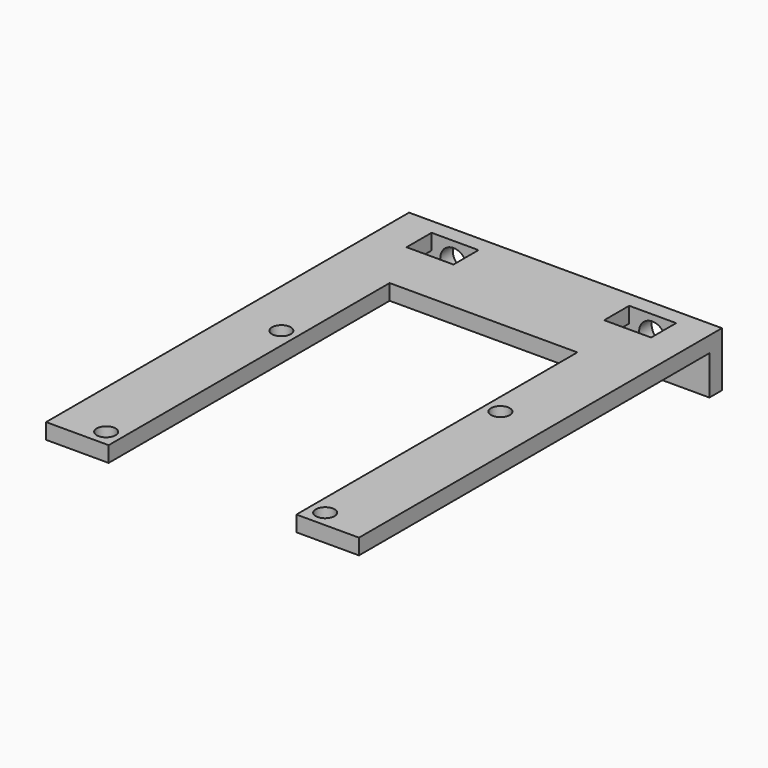
from build123d import *

# Parameters (mm, degrees)
SKETCH_W        = 40
SKETCH_H        = 58
PAD_DEPTH       = 2
SKETCH001_W     = 24
SKETCH001_H     = 50
POCKET_DEPTH    = 5
SKETCH002_W     = 40
SKETCH002_H     = 2
PAD001_DEPTH    = 5
SKETCH004_R     = 1.7
POCKET001_DEPTH = 7
SKETCH005_R     = 1.2
POCKET002_DEPTH = 5
SKETCH006_W     = 6
SKETCH006_H     = 4
POCKET003_DEPTH = 5
SKETCH007_R     = 1.2
POCKET004_DEPTH = 5


with BuildPart() as part:
    # Sketch → Pad (new body)
    with BuildSketch(Plane.XY):
        Rectangle(SKETCH_W, SKETCH_H)
    extrude(amount=PAD_DEPTH)

    # Sketch001 (on Face6 of Pad) → Pocket (cut)
    with BuildSketch(Plane.XY.offset(2)):
        with Locations((0, -9.102527)):
            Rectangle(SKETCH001_W, SKETCH001_H)
    extrude(amount=-POCKET_DEPTH, mode=Mode.SUBTRACT)

    # Sketch002 (on Face4 of Pocket) → Pad001 (join)
    with BuildSketch(Plane(origin=(0, 0, 0), x_dir=(1, 0, 0), z_dir=(0, 0, -1))):
        with Locations((0, -28)):
            Rectangle(SKETCH002_W, SKETCH002_H)
    extrude(amount=PAD001_DEPTH)

    # Sketch004 (on Face4 of Pad001) → Pocket001 (cut)
    with BuildSketch(Plane(origin=(0, 29, 0), x_dir=(-1, 0, 0), z_dir=(0, 1, 0))):
        with Locations((-12.71, -0.5)):
            Circle(SKETCH004_R)
        with Locations((12.71, -0.5)):
            Circle(SKETCH004_R)
    extrude(amount=-POCKET001_DEPTH, mode=Mode.SUBTRACT)

    # Sketch005 (on Face5 of Pocket001) → Pocket002 (cut)
    with BuildSketch(Plane.YZ.offset(20)):
        with Locations((-14, 25)):
            Circle(SKETCH005_R)
        with Locations((14, 25)):
            Circle(SKETCH005_R)
        with Locations((14, -3)):
            Circle(SKETCH005_R)
        with Locations((-14, -3)):
            Circle(SKETCH005_R)
    extrude(amount=-POCKET002_DEPTH, mode=Mode.SUBTRACT)

    # Sketch006 (on Face12 of Pocket002) → Pocket003 (cut)
    with BuildSketch(Plane(origin=(0, 0, 0), x_dir=(1, 0, 0), z_dir=(0, 0, -1))):
        with Locations((-12.517092, -25)):
            Rectangle(SKETCH006_W, SKETCH006_H)
        with Locations((12.746344, -25)):
            Rectangle(SKETCH006_W, SKETCH006_H)
    extrude(amount=-POCKET003_DEPTH, mode=Mode.SUBTRACT)

    # Sketch007 (on Face15 of Pocket003) → Pocket004 (cut)
    with BuildSketch(Plane(origin=(0, 0, 0), x_dir=(1, 0, 0), z_dir=(0, 0, -1))):
        with Locations((-14, 26.898312)):
            Circle(SKETCH007_R)
        with Locations((14, 26.898312)):
            Circle(SKETCH007_R)
        with Locations((14, -1.101688)):
            Circle(SKETCH007_R)
        with Locations((-14, -1.101688)):
            Circle(SKETCH007_R)
    extrude(amount=-POCKET004_DEPTH, mode=Mode.SUBTRACT)


solid = part.part
